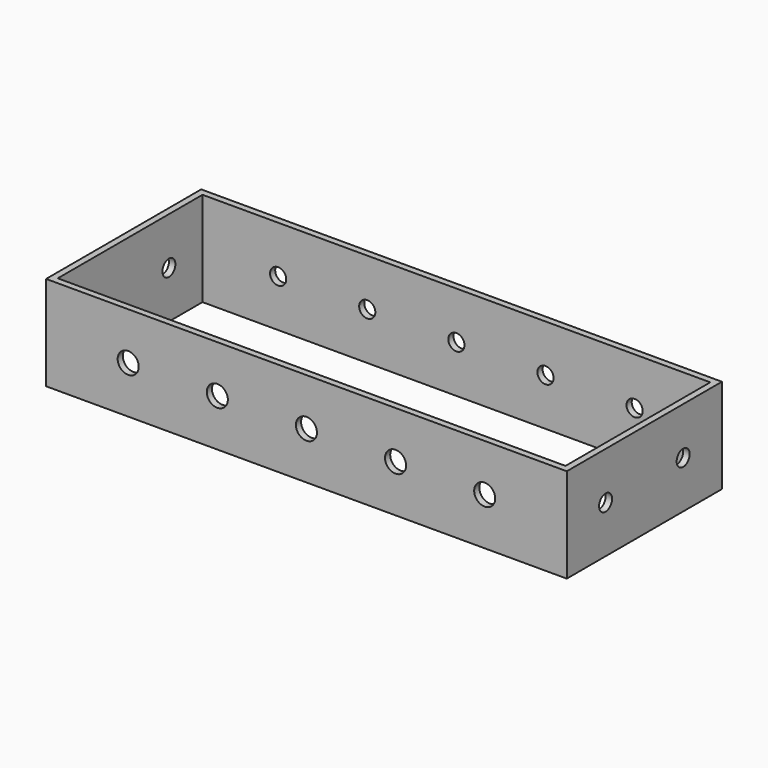
from build123d import *

# Parameters (mm, degrees)
F0_W     = 192.8
F0_H     = 71.8
F0_W_2   = 188
F0_H_2   = 67
F1_DEPTH = 35
F2_R     = 3
F3_DEPTH = 192.801
F4_R     = 3.9
F5_DEPTH = 25
F6_R     = 3
F7_DEPTH = 25


with BuildPart() as f1:
    # F0 (on Top) → F1 (new body)
    with BuildSketch(Plane.XY):
        Rectangle(F0_W, F0_H)
        Rectangle(F0_W_2, F0_H_2, mode=Mode.SUBTRACT)
    extrude(amount=F1_DEPTH)

    # F2 (on face) → F3 (cut, through all)
    with BuildSketch(Plane(origin=(-96.4, 0, 0), x_dir=(0, -1, 0), z_dir=(-1, 0, 0))):
        with Locations((-17.95, 17.5)):
            Circle(F2_R)
        with Locations((17.95, 17.5)):
            Circle(F2_R)
    extrude(amount=-F3_DEPTH, mode=Mode.SUBTRACT)

    # F4 (on face) → F5 (cut)
    with BuildSketch(Plane.XZ.offset(35.9)):
        with Locations((0, 17.5)):
            Circle(F4_R)
        with Locations((33, 17.5)):
            Circle(F4_R)
        with Locations((66, 17.5)):
            Circle(F4_R)
        with Locations((-33, 17.5)):
            Circle(F4_R)
        with Locations((-66, 17.5)):
            Circle(F4_R)
    extrude(amount=-F5_DEPTH, mode=Mode.SUBTRACT)

    # F6 (on face) → F7 (cut)
    with BuildSketch(Plane(origin=(0, 35.9, 0), x_dir=(-1, 0, 0), z_dir=(0, 1, 0))):
        with Locations((0, 17.5)):
            Circle(F6_R)
        with Locations((33, 17.5)):
            Circle(F6_R)
        with Locations((66, 17.5)):
            Circle(F6_R)
        with Locations((-33, 17.5)):
            Circle(F6_R)
        with Locations((-66, 17.5)):
            Circle(F6_R)
    extrude(amount=-F7_DEPTH, mode=Mode.SUBTRACT)


solid = f1.part
